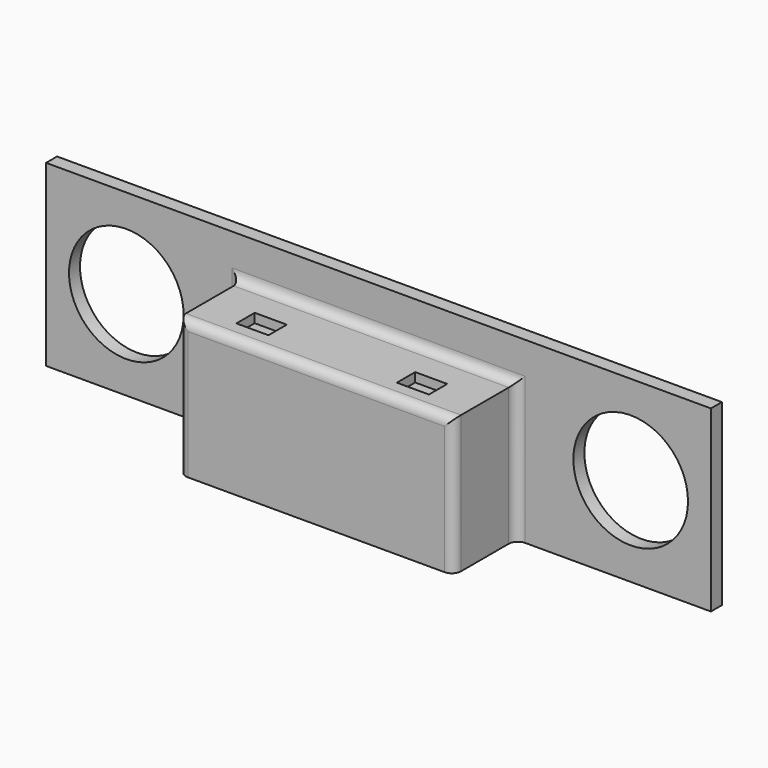
from build123d import *

# Parameters (mm, degrees)
F0_W     = 145
F0_H     = 39
F0_R     = 12.5
F1_DEPTH = 3
F2_W     = 60
F2_H     = 30
F3_DEPTH = 17
F4_W     = 7
F4_H     = 5
F5_DEPTH = 2
F6_R     = 2


with BuildPart() as f1:
    # F0 (on Front) → F1 (new body)
    with BuildSketch(Plane.XZ):
        Rectangle(F0_W, F0_H)
        with Locations((-55, 0)):
            Circle(F0_R, mode=Mode.SUBTRACT)
        with Locations((55, 0)):
            Circle(F0_R, mode=Mode.SUBTRACT)
    extrude(amount=F1_DEPTH)

    # F2 (on face) → F3 (join)
    with BuildSketch(Plane.XZ.offset(3)):
        with Locations((0, -4.5)):
            Rectangle(F2_W, F2_H)
    extrude(amount=F3_DEPTH)

    # F4 (on face) → F5 (cut)
    with BuildSketch(Plane.XY.offset(10.5)):
        with Locations((-17.5, -13)):
            Rectangle(F4_W, F4_H)
        with Locations((17.5, -13)):
            Rectangle(F4_W, F4_H)
    extrude(amount=-F5_DEPTH, mode=Mode.SUBTRACT)

    # F6
    f6_edges = [f1.edges().sort_by_distance(p)[0] for p in [
        (0, -3, 10.5),
        (30, -3, -4.5),
        (-30, -3, -4.5),
        (-30, -20, -4.5),
        (0, -20, 10.5),
        (30, -20, -4.5),
    ]]
    fillet(f6_edges, radius=F6_R)


solid = f1.part
